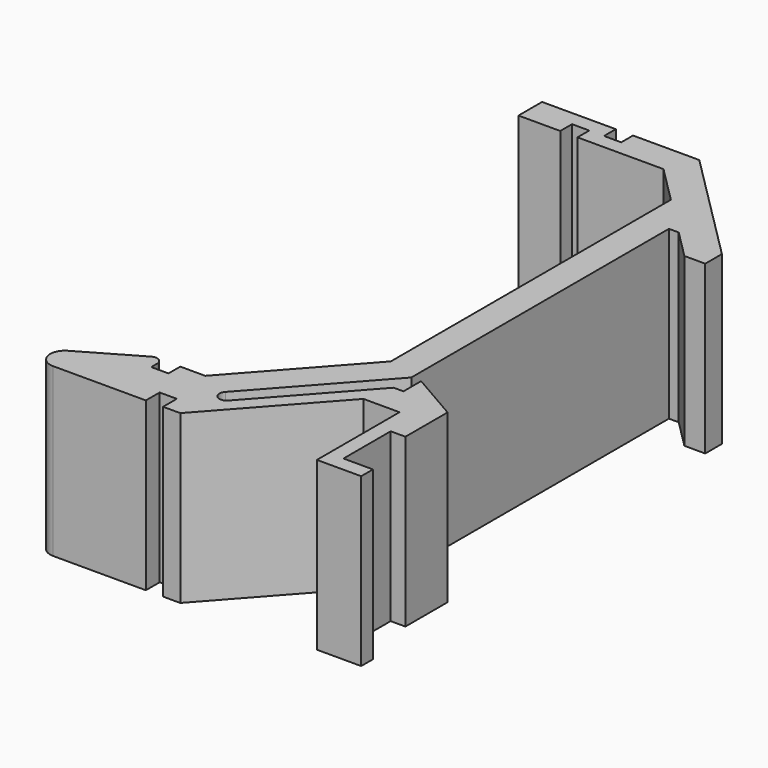
from build123d import *

# Parameters (mm, degrees)
PAD_DEPTH = 17


with BuildPart() as part:
    # Sketch → Pad (new body)
    with BuildSketch(Plane.XY):
        with BuildLine():
            Line((0, 17.5), (0, -15.248976))
            Line((-9.983073, -26.419536), (0, -15.248976))
            ThreePointArc((-9.983073, -26.419536), (-9.923619, -27.478522), (-8.864632, -27.41908))
            Line((0, -17.5), (-8.864632, -27.41908))
            Line((1, -17.5), (0, -17.5))
            Line((1, -15.25), (1, -17.5))
            Line((6, -18.136751), (1, -15.25))
            Line((6, -18.136751), (6, -23.5))
            Line((6, -23.5), (4.5, -23.5))
            Line((4.5, -23.5), (4.5, -29.5))
            Line((4.5, -29.5), (7.5, -29.5))
            Line((7.5, -29.5), (7.5, -31))
            Line((3, -31), (7.5, -31))
            Line((3, -20.5), (3, -31))
            Line((-0.669356, -20.5), (3, -20.5))
            Line((-10.5, -31.5), (-0.669356, -20.5))
            Line((-12.25, -31.5), (-10.5, -31.5))
            Line((-12.25, -29.75), (-12.25, -31.5))
            Line((-14, -29.75), (-12.25, -29.75))
            Line((-14, -31.5), (-14, -29.75))
            Line((-23.4282, -31.5), (-14, -31.5))
            ThreePointArc((-24.178201, -28.700962), (-24.877089, -30.388229), (-23.4282, -31.5))
            Line((-18.375, -25.350481), (-24.178201, -28.700962))
            ThreePointArc((-17.25, -26), (-17.625, -25.350481), (-18.375, -25.350481))
            Line((-17.25, -26), (-17.25, -26.75))
            Line((-15.5, -26.75), (-17.25, -26.75))
            Line((-15.5, -25.25), (-15.5, -26.75))
            Line((-12.961323, -25.25), (-15.5, -25.25))
            Line((-3, -14.103777), (-12.961323, -25.25))
            Line((-3, 21.500001), (-3, -14.103777))
            Line((-6.749997, 25.25), (-3, 21.500001))
            Line((-15.5, 25.25), (-6.749997, 25.25))
            Line((-15.5, 26.75), (-15.5, 25.25))
            Line((-17.25, 26.75), (-15.5, 26.75))
            Line((-17.25, 25.25), (-17.25, 26.75))
            Line((-21.5, 25.25), (-17.25, 25.25))
            Line((-21.5, 25.25), (-21.5, 28.25))
            Line((-21.5, 28.25), (-14, 28.25))
            Line((-14, 26.75), (-14, 28.25))
            Line((-12.25, 26.75), (-14, 26.75))
            Line((-12.25, 28.25), (-12.25, 26.75))
            Line((-12.25, 28.25), (-5.507356, 28.25))
            Line((-5.507356, 28.25), (6, 16.74264))
            Line((6, 16.74264), (6, 14.621319))
            Line((6, 14.621319), (3.87868, 14.621319))
            Line((3.87868, 14.621319), (1, 17.5))
            Line((1, 17.5), (0, 17.5))
        make_face()
    extrude(amount=PAD_DEPTH)


solid = part.part
